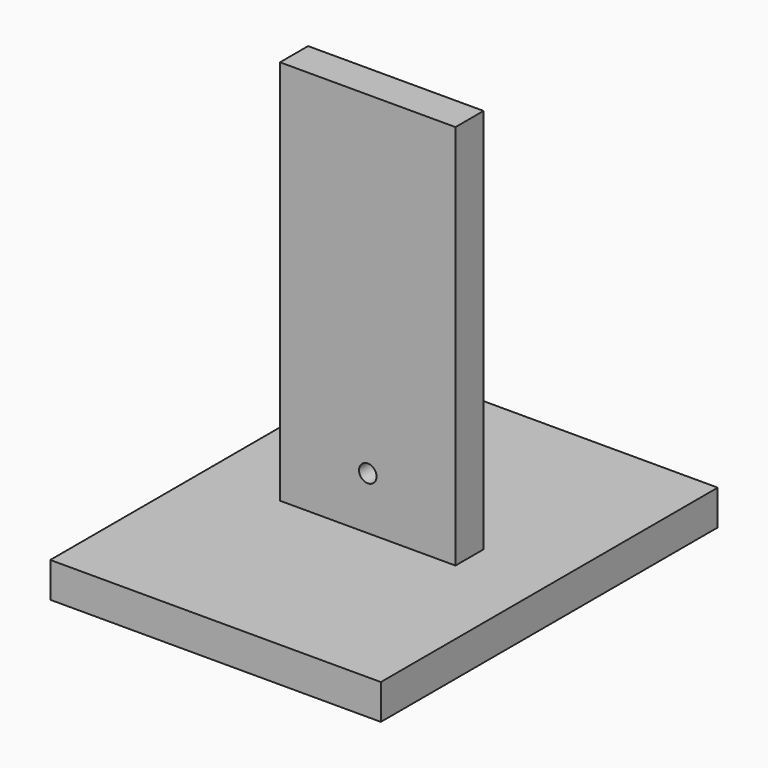
from build123d import *

# Parameters (mm, degrees)
F0_W      = 127
F0_H      = 304.8
F1_DEPTH  = 25.4
F2_W      = 239.287932
F2_H      = 304.8
F2_W_2    = 127
F2_H_2    = 25.4
F3_DEPTH  = 25.4
F4_R      = 6.35
F5_DEPTH  = 167.098508
F6_R      = 12.7
F6_R_2    = 6.35
F7_DEPTH  = 32.258
F8_R      = 12.7
F9_DEPTH  = 50.8
F10_R     = 6.35
F11_DEPTH = 78.232


with BuildPart() as f1:
    # F0 (on Front) → F1 (new body)
    with BuildSketch(Plane.XZ):
        with Locations((3.56551, 32.600223)):
            Rectangle(F0_W, F0_H)
    extrude(amount=F1_DEPTH)

    # F2 (on face) → F3 (join)
    with BuildSketch(Plane(origin=(0, 0, -119.799777), x_dir=(1, 0, 0), z_dir=(0, 0, -1))):
        with Locations((3.56551, 10.702492)):
            Rectangle(F2_W, F2_H)
        with Locations((3.56551, 12.7)):
            Rectangle(F2_W_2, F2_H_2, mode=Mode.SUBTRACT)
    extrude(amount=-F3_DEPTH)

    # F4 (on face) → F5 (cut, through all)
    with BuildSketch(Plane.XZ.offset(25.4)):
        with Locations((3.56551, 77.050223)):
            Circle(F4_R)
    extrude(amount=-F5_DEPTH, mode=Mode.SUBTRACT)

    # F6 (on face) → F7 (cut)
    with BuildSketch(Plane(origin=(0, 0, 0), x_dir=(-1, 0, 0), z_dir=(0, 1, 0))):
        with Locations((-3.56551, 77.050223)):
            Circle(F6_R)
        with Locations((-3.56551, 77.050223)):
            Circle(F6_R_2, mode=Mode.SUBTRACT)
    extrude(amount=-F7_DEPTH, mode=Mode.SUBTRACT)

    # F8 (on face) → F9 (join)
    with BuildSketch(Plane.XZ.offset(25.4)):
        with Locations((3.56551, 77.050223)):
            Circle(F8_R)
    extrude(amount=-F9_DEPTH)

    # F10 (on face) → F11 (cut)
    with BuildSketch(Plane(origin=(0, 0, 0), x_dir=(-1, 0, 0), z_dir=(0, 1, 0))):
        with Locations((-3.56551, -56.299777)):
            Circle(F10_R)
    extrude(amount=-F11_DEPTH, mode=Mode.SUBTRACT)


solid = f1.part
